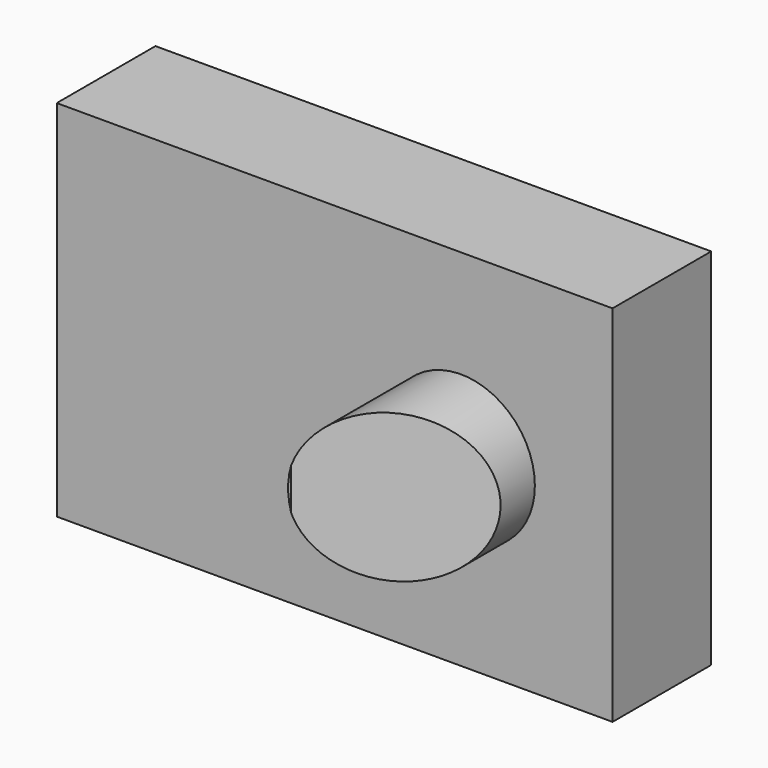
from build123d import *

# Parameters (mm, degrees)
F0_W     = 114.426647
F0_H     = 74.959393
F1_DEPTH = 25.4
F2_R     = 15.240971
F3_DEPTH = 25.4
F5_DEPTH = 25.4


with BuildPart() as f1:
    # F0 (on Front) → F1 (new body)
    with BuildSketch(Plane.XZ):
        with Locations((4.968898, -0.141972)):
            Rectangle(F0_W, F0_H)
    extrude(amount=F1_DEPTH)

    # F2 (on face) → F3 (join)
    with BuildSketch(Plane.XZ.offset(25.4)):
        with Locations((30.949144, 0)):
            Circle(F2_R)
    extrude(amount=F3_DEPTH)

    # F4 (on Top) → F5 (cut, symmetric)
    with BuildSketch(Plane.XY):
        Polygon((50.745651, -52.68006), (46.725634, -33.919994), (12.957521, -52.68006), align=None)
    extrude(amount=F5_DEPTH, both=True, mode=Mode.SUBTRACT)


solid = f1.part
